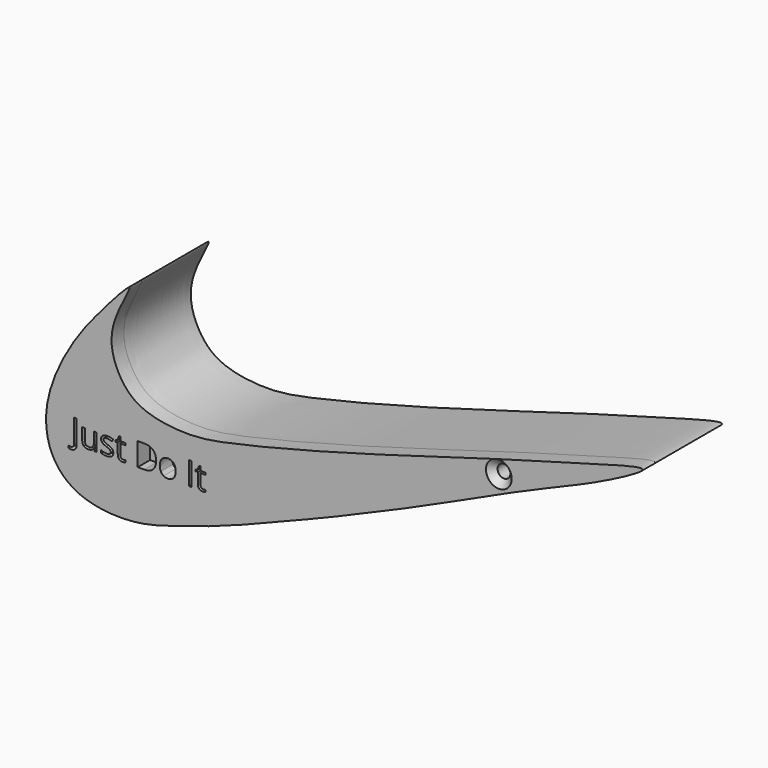
from build123d import *

# Parameters (mm, degrees)
F1_DEPTH       = 6.5
F2_W           = 0.2078971665
F2_H           = 1.7888552805
F3_DEPTH       = 1.2
F5_D           = 1
F5_CSINK_D     = 2
F5_CSINK_ANGLE = 90


with BuildPart() as f1:
    # F0 (on Front) → F1 (new body)
    with BuildSketch(Plane.XZ):
        with BuildLine():
            add(Edge.make_bspline(
                [(-46.7660725117, 38.5958254337), (-46.9121126383, 38.6681762673), (-49.8152556339, 35.3540722969), (-51.1271687307, 33.5037650167), (-52.496910175, 31.0585099087), (-53.4365939994, 28.091829778), (-53.0383888701, 25.0650092184), (-50.7565595066, 22.7762748451), (-46.5124040794, 22.4717158199), (-43.7486281427, 23.2673852766), (-40.8973893865, 24.1455550896), (-38.330376154, 25.075889555), (-35.5947590884, 26.1627297987), (-32.7195007389, 27.3272076083), (-30.5046720322, 28.2229116287), (-28.0241330398, 29.333123892), (-25.6471250773, 30.3054413643), (-23.7215274074, 31.2008745581), (-21.4532959, 32.1993428022), (-18.2291273114, 33.6929152445), (-16.2531467807, 34.5983472635), (-12.8258116748, 36.0571518436), (-10.1656364787, 37.1695088575), (-4.891932174, 39.9420516843), (-11.8462566872, 37.9178891812), (-15.8064232223, 36.8575290416), (-19.924720385, 35.6554395679), (-23.8089137205, 34.504630342), (-26.3645881932, 33.7694988716), (-29.1693164835, 32.9677343149), (-31.0039475632, 32.4655342455), (-34.0804091142, 31.6405366721), (-36.2508571055, 31.105639869), (-39.6955697914, 30.2903079684), (-41.9353702539, 29.9925371133), (-44.2647697897, 30.1530921953), (-46.3840520602, 30.7969200388), (-47.8323390467, 32.5447658476), (-48.6172798639, 35.4695238732), (-46.6369948736, 38.5318781137), (-46.7660725117, 38.5958254337)],
                knots=[0, 0, 0, 0, 0.0304075704, 0.0562338468, 0.0809020064, 0.107774204, 0.133612511, 0.1598372011, 0.1905353993, 0.2166725821, 0.2427092145, 0.2679151859, 0.294182451, 0.3209654067, 0.3446028546, 0.3696898586, 0.394151714, 0.4160986123, 0.4403311236, 0.4687962737, 0.4918022936, 0.5202097006, 0.5492248688, 0.5768921579, 0.6090051728, 0.6429248713, 0.6741074381, 0.7046427065, 0.7298259618, 0.7552831059, 0.776787643, 0.8034092057, 0.8269702303, 0.8552955584, 0.8785227609, 0.9015414136, 0.9237906045, 0.945867554, 0.9731242538, 1, 1, 1, 1], degree=3))
        make_face()
    extrude(amount=F1_DEPTH)

    # F2 (on face) → F3 (join)
    with BuildSketch(Plane.XZ.offset(6.5)):
        with BuildLine():
            add(Edge.make_bspline(
                [(-46.7660725117, 38.5958254337), (-46.9121126383, 38.6681762673), (-49.8152556339, 35.3540722969), (-51.1271687307, 33.5037650167), (-52.496910175, 31.0585099087), (-53.4365939994, 28.091829778), (-53.0383888701, 25.0650092184), (-50.7565595066, 22.7762748451), (-46.5124040794, 22.4717158199), (-43.7486281427, 23.2673852766), (-40.8973893865, 24.1455550896), (-38.330376154, 25.075889555), (-35.5947590884, 26.1627297987), (-32.7195007389, 27.3272076083), (-30.5046720322, 28.2229116287), (-28.0241330398, 29.333123892), (-25.6471250773, 30.3054413643), (-23.7215274074, 31.2008745581), (-21.4532959, 32.1993428022), (-18.2291273114, 33.6929152445), (-16.2531467807, 34.5983472635), (-12.8258116748, 36.0571518436), (-10.1656364787, 37.1695088575), (-4.891932174, 39.9420516843), (-11.8462566872, 37.9178891812), (-15.8064232223, 36.8575290416), (-19.924720385, 35.6554395679), (-23.8089137205, 34.504630342), (-26.3645881932, 33.7694988716), (-29.1693164835, 32.9677343149), (-31.0039475632, 32.4655342455), (-34.0804091142, 31.6405366721), (-36.2508571055, 31.105639869), (-39.6955697914, 30.2903079684), (-41.9353702539, 29.9925371133), (-44.2647697897, 30.1530921953), (-46.3840520602, 30.7969200388), (-47.8323390467, 32.5447658476), (-48.6172798639, 35.4695238732), (-46.6369948736, 38.5318781137), (-46.7660725117, 38.5958254337)],
                knots=[0, 0, 0, 0, 0.0304075704, 0.0562338468, 0.0809020064, 0.107774204, 0.133612511, 0.1598372011, 0.1905353993, 0.2166725821, 0.2427092145, 0.2679151859, 0.294182451, 0.3209654067, 0.3446028546, 0.3696898586, 0.394151714, 0.4160986123, 0.4403311236, 0.4687962737, 0.4918022936, 0.5202097006, 0.5492248688, 0.5768921579, 0.6090051728, 0.6429248713, 0.6741074381, 0.7046427065, 0.7298259618, 0.7552831059, 0.776787643, 0.8034092057, 0.8269702303, 0.8552955584, 0.8785227609, 0.9015414136, 0.9237906045, 0.945867554, 0.9731242538, 1, 1, 1, 1], degree=3))
        make_face()
        with BuildLine():
            add(Edge.make_bspline(
                [(-50.9741092271, 26.1774555373), (-51.0915652533, 26.0496242287), (-51.3119910627, 26.0496242287)],
                knots=[0, 0, 0, 1, 1, 1], degree=2))
            add(Edge.make_bspline(
                [(-51.3119910627, 26.0496242287), (-51.4267064484, 26.0496242287), (-51.4928733432, 26.0825119161)],
                knots=[0, 0, 0, 1, 1, 1], degree=2))
            Line((-51.4928733432, 26.0825119161), (-51.4928733432, 26.2598705158))
            add(Edge.make_bspline(
                [(-51.4928733432, 26.2598705158), (-51.4059558837, 26.2355962704), (-51.3119910627, 26.2355962704)],
                knots=[0, 0, 0, 1, 1, 1], degree=2))
            add(Edge.make_bspline(
                [(-51.3119910627, 26.2355962704), (-51.1906198355, 26.2355962704), (-51.1275851014, 26.3090062868)],
                knots=[0, 0, 0, 1, 1, 1], degree=2))
            add(Edge.make_bspline(
                [(-51.1275851014, 26.3090062868), (-51.0645503673, 26.3824163032), (-51.0645503673, 26.5206228942)],
                knots=[0, 0, 0, 1, 1, 1], degree=2))
            Line((-51.0645503673, 26.5206228942), (-51.0645503673, 28.3094781747))
            Line((-51.0645503673, 28.3094781747), (-50.8566532008, 28.3094781747))
            Line((-50.8566532008, 28.3094781747), (-50.8566532008, 26.537849778))
            add(Edge.make_bspline(
                [(-50.8566532008, 26.537849778), (-50.8566532008, 26.305286846), (-50.9741092271, 26.1774555373)],
                knots=[0, 0, 0, 1, 1, 1], degree=2))
        make_face(mode=Mode.SUBTRACT)
        with BuildLine():
            Line((-50.4271556646, 27.8615791944), (-50.2216076186, 27.8615791944))
            Line((-50.2216076186, 27.8615791944), (-50.2216076186, 26.9916215596))
            add(Edge.make_bspline(
                [(-50.2216076186, 26.9916215596), (-50.2216076186, 26.8275746429), (-50.1470230419, 26.7469215048)],
                knots=[0, 0, 0, 1, 1, 1], degree=2))
            add(Edge.make_bspline(
                [(-50.1470230419, 26.7469215048), (-50.0724384652, 26.6662683668), (-49.9134813096, 26.6662683668)],
                knots=[0, 0, 0, 1, 1, 1], degree=2))
            add(Edge.make_bspline(
                [(-49.9134813096, 26.6662683668), (-49.7028435024, 26.6662683668), (-49.6057465207, 26.7811795125)],
                knots=[0, 0, 0, 1, 1, 1], degree=2))
            add(Edge.make_bspline(
                [(-49.6057465207, 26.7811795125), (-49.5086495389, 26.8960906582), (-49.5086495389, 27.1568430366)],
                knots=[0, 0, 0, 1, 1, 1], degree=2))
            Line((-49.5086495389, 27.1568430366), (-49.5086495389, 27.8615791944))
            Line((-49.5086495389, 27.8615791944), (-49.3054506134, 27.8615791944))
            Line((-49.3054506134, 27.8615791944), (-49.3054506134, 26.5206228942))
            Line((-49.3054506134, 26.5206228942), (-49.473021211, 26.5206228942))
            Line((-49.473021211, 26.5206228942), (-49.5023852175, 26.7003306144))
            Line((-49.5023852175, 26.7003306144), (-49.51334778, 26.7003306144))
            add(Edge.make_bspline(
                [(-49.51334778, 26.7003306144), (-49.5755994739, 26.6012760322), (-49.6863996587, 26.5486165804)],
                knots=[0, 0, 0, 1, 1, 1], degree=2))
            add(Edge.make_bspline(
                [(-49.6863996587, 26.5486165804), (-49.7971998435, 26.4959571286), (-49.9393216354, 26.4959571286)],
                knots=[0, 0, 0, 1, 1, 1], degree=2))
            add(Edge.make_bspline(
                [(-49.9393216354, 26.4959571286), (-50.1840216902, 26.4959571286), (-50.3055886774, 26.6122385947)],
                knots=[0, 0, 0, 1, 1, 1], degree=2))
            add(Edge.make_bspline(
                [(-50.3055886774, 26.6122385947), (-50.4271556646, 26.7285200607), (-50.4271556646, 26.984182678)],
                knots=[0, 0, 0, 1, 1, 1], degree=2))
            Line((-50.4271556646, 26.984182678), (-50.4271556646, 27.8615791944))
        make_face(mode=Mode.SUBTRACT)
        with BuildLine():
            add(Edge.make_bspline(
                [(-48.0936959421, 27.1079030257), (-48.0099106434, 27.0198110059), (-48.0099106434, 26.886302656)],
                knots=[0, 0, 0, 1, 1, 1], degree=2))
            add(Edge.make_bspline(
                [(-48.0099106434, 26.886302656), (-48.0099106434, 26.6991560541), (-48.1492917946, 26.5975565914)],
                knots=[0, 0, 0, 1, 1, 1], degree=2))
            add(Edge.make_bspline(
                [(-48.1492917946, 26.5975565914), (-48.2886729458, 26.4959571286), (-48.5408118823, 26.4959571286)],
                knots=[0, 0, 0, 1, 1, 1], degree=2))
            add(Edge.make_bspline(
                [(-48.5408118823, 26.4959571286), (-48.8074370619, 26.4959571286), (-48.9566062153, 26.5805254676)],
                knots=[0, 0, 0, 1, 1, 1], degree=2))
            Line((-48.9566062153, 26.5805254676), (-48.9566062153, 26.7688466297))
            add(Edge.make_bspline(
                [(-48.9566062153, 26.7688466297), (-48.8599007537, 26.7199066188), (-48.7492963289, 26.6919129325)],
                knots=[0, 0, 0, 1, 1, 1], degree=2))
            add(Edge.make_bspline(
                [(-48.7492963289, 26.6919129325), (-48.6386919042, 26.6639192463), (-48.5357221211, 26.6639192463)],
                knots=[0, 0, 0, 1, 1, 1], degree=2))
            add(Edge.make_bspline(
                [(-48.5357221211, 26.6639192463), (-48.3767649655, 26.6639192463), (-48.2912178264, 26.7146210976)],
                knots=[0, 0, 0, 1, 1, 1], degree=2))
            add(Edge.make_bspline(
                [(-48.2912178264, 26.7146210976), (-48.2056706872, 26.765322949), (-48.2056706872, 26.8694672923)],
                knots=[0, 0, 0, 1, 1, 1], degree=2))
            add(Edge.make_bspline(
                [(-48.2056706872, 26.8694672923), (-48.2056706872, 26.9477713098), (-48.2734036624, 27.0033671623)],
                knots=[0, 0, 0, 1, 1, 1], degree=2))
            add(Edge.make_bspline(
                [(-48.2734036624, 27.0033671623), (-48.3411366375, 27.0589630147), (-48.5384627617, 27.1349179117)],
                knots=[0, 0, 0, 1, 1, 1], degree=2))
            add(Edge.make_bspline(
                [(-48.5384627617, 27.1349179117), (-48.7256093636, 27.2046084873), (-48.8045006613, 27.256680659)],
                knots=[0, 0, 0, 1, 1, 1], degree=2))
            add(Edge.make_bspline(
                [(-48.8045006613, 27.256680659), (-48.883391959, 27.3087528306), (-48.9219566876, 27.3747239654)],
                knots=[0, 0, 0, 1, 1, 1], degree=2))
            add(Edge.make_bspline(
                [(-48.9219566876, 27.3747239654), (-48.9605214162, 27.4406951002), (-48.9605214162, 27.5323108007)],
                knots=[0, 0, 0, 1, 1, 1], degree=2))
            add(Edge.make_bspline(
                [(-48.9605214162, 27.5323108007), (-48.9605214162, 27.6963577174), (-48.8270130663, 27.7913013387)],
                knots=[0, 0, 0, 1, 1, 1], degree=2))
            add(Edge.make_bspline(
                [(-48.8270130663, 27.7913013387), (-48.6935047164, 27.8862449599), (-48.4613333045, 27.8862449599)],
                knots=[0, 0, 0, 1, 1, 1], degree=2))
            add(Edge.make_bspline(
                [(-48.4613333045, 27.8862449599), (-48.244822696, 27.8862449599), (-48.0377085696, 27.7981529402)],
                knots=[0, 0, 0, 1, 1, 1], degree=2))
            Line((-48.0377085696, 27.7981529402), (-48.1101397858, 27.6329314632))
            add(Edge.make_bspline(
                [(-48.1101397858, 27.6329314632), (-48.311772631, 27.7159337218), (-48.4758195477, 27.7159337218)],
                knots=[0, 0, 0, 1, 1, 1], degree=2))
            add(Edge.make_bspline(
                [(-48.4758195477, 27.7159337218), (-48.62029046, 27.7159337218), (-48.6937004765, 27.6707131517)],
                knots=[0, 0, 0, 1, 1, 1], degree=2))
            add(Edge.make_bspline(
                [(-48.6937004765, 27.6707131517), (-48.7671104929, 27.6254925815), (-48.7671104929, 27.5460140037)],
                knots=[0, 0, 0, 1, 1, 1], degree=2))
            add(Edge.make_bspline(
                [(-48.7671104929, 27.5460140037), (-48.7671104929, 27.4919842316), (-48.7395083267, 27.4542025432)],
                knots=[0, 0, 0, 1, 1, 1], degree=2))
            add(Edge.make_bspline(
                [(-48.7395083267, 27.4542025432), (-48.7119061606, 27.4164208547), (-48.6508290269, 27.3821628471)],
                knots=[0, 0, 0, 1, 1, 1], degree=2))
            add(Edge.make_bspline(
                [(-48.6508290269, 27.3821628471), (-48.5897518932, 27.3479048394), (-48.4159169743, 27.2829125048)],
                knots=[0, 0, 0, 1, 1, 1], degree=2))
            add(Edge.make_bspline(
                [(-48.4159169743, 27.2829125048), (-48.1774812409, 27.1959950454), (-48.0936959421, 27.1079030257)],
                knots=[0, 0, 0, 1, 1, 1], degree=2))
        make_face(mode=Mode.SUBTRACT)
        with BuildLine():
            add(Edge.make_bspline(
                [(-47.4042290678, 26.7287158208), (-47.3466756149, 26.6639192463), (-47.2464464725, 26.6639192463)],
                knots=[0, 0, 0, 1, 1, 1], degree=2))
            add(Edge.make_bspline(
                [(-47.2464464725, 26.6639192463), (-47.1924167004, 26.6639192463), (-47.1423021291, 26.671749648)],
                knots=[0, 0, 0, 1, 1, 1], degree=2))
            add(Edge.make_bspline(
                [(-47.1423021291, 26.671749648), (-47.0921875579, 26.6795800498), (-47.0628235513, 26.6881934917)],
                knots=[0, 0, 0, 1, 1, 1], degree=2))
            Line((-47.0628235513, 26.6881934917), (-47.0628235513, 26.5327600169))
            add(Edge.make_bspline(
                [(-47.0628235513, 26.5327600169), (-47.0957112387, 26.5170992134), (-47.1599205331, 26.506528171)],
                knots=[0, 0, 0, 1, 1, 1], degree=2))
            add(Edge.make_bspline(
                [(-47.1599205331, 26.506528171), (-47.2241298275, 26.4959571286), (-47.275810479, 26.4959571286)],
                knots=[0, 0, 0, 1, 1, 1], degree=2))
            add(Edge.make_bspline(
                [(-47.275810479, 26.4959571286), (-47.6645899261, 26.4959571286), (-47.6645899261, 26.9058786604)],
                knots=[0, 0, 0, 1, 1, 1], degree=2))
            Line((-47.6645899261, 26.9058786604), (-47.6645899261, 27.7037965991))
            Line((-47.6645899261, 27.7037965991), (-47.8568262891, 27.7037965991))
            Line((-47.8568262891, 27.7037965991), (-47.8568262891, 27.801676621))
            Line((-47.8568262891, 27.801676621), (-47.6645899261, 27.8862449599))
            Line((-47.6645899261, 27.8862449599), (-47.579238547, 28.172446144))
            Line((-47.579238547, 28.172446144), (-47.4617825207, 28.172446144))
            Line((-47.4617825207, 28.172446144), (-47.4617825207, 27.8615791944))
            Line((-47.4617825207, 27.8615791944), (-47.0726115535, 27.8615791944))
            Line((-47.0726115535, 27.8615791944), (-47.0726115535, 27.7037965991))
            Line((-47.0726115535, 27.7037965991), (-47.4617825207, 27.7037965991))
            Line((-47.4617825207, 27.7037965991), (-47.4617825207, 26.9144921024))
            add(Edge.make_bspline(
                [(-47.4617825207, 26.9144921024), (-47.4617825207, 26.7935123953), (-47.4042290678, 26.7287158208)],
                knots=[0, 0, 0, 1, 1, 1], degree=2))
        make_face(mode=Mode.SUBTRACT)
        with BuildLine():
            add(Edge.make_bspline(
                [(-44.9167061908, 28.0782855629), (-44.6855135791, 27.8470929512), (-44.6855135791, 27.4320816582)],
                knots=[0, 0, 0, 1, 1, 1], degree=2))
            add(Edge.make_bspline(
                [(-44.6855135791, 27.4320816582), (-44.6855135791, 26.9892724391), (-44.9259069129, 26.7549476666)],
                knots=[0, 0, 0, 1, 1, 1], degree=2))
            add(Edge.make_bspline(
                [(-44.9259069129, 26.7549476666), (-45.1663002467, 26.5206228942), (-45.6177229078, 26.5206228942)],
                knots=[0, 0, 0, 1, 1, 1], degree=2))
            Line((-45.6177229078, 26.5206228942), (-46.1133873388, 26.5206228942))
            Line((-46.1133873388, 26.5206228942), (-46.1133873388, 28.3094781747))
            Line((-46.1133873388, 28.3094781747), (-45.565259216, 28.3094781747))
            add(Edge.make_bspline(
                [(-45.565259216, 28.3094781747), (-45.1478988026, 28.3094781747), (-44.9167061908, 28.0782855629)],
                knots=[0, 0, 0, 1, 1, 1], degree=2))
        make_face(mode=Mode.SUBTRACT)
        with BuildLine():
            add(Edge.make_bspline(
                [(-43.3255685546, 27.698902598), (-43.1597597975, 27.511560236), (-43.1597597975, 27.1924713646)],
                knots=[0, 0, 0, 1, 1, 1], degree=2))
            add(Edge.make_bspline(
                [(-43.1597597975, 27.1924713646), (-43.1597597975, 26.8643775311), (-43.3247855144, 26.6801673299)],
                knots=[0, 0, 0, 1, 1, 1], degree=2))
            add(Edge.make_bspline(
                [(-43.3247855144, 26.6801673299), (-43.4898112314, 26.4959571286), (-43.7811021766, 26.4959571286)],
                knots=[0, 0, 0, 1, 1, 1], degree=2))
            add(Edge.make_bspline(
                [(-43.7811021766, 26.4959571286), (-43.9612014169, 26.4959571286), (-44.1005825681, 26.5805254676)],
                knots=[0, 0, 0, 1, 1, 1], degree=2))
            add(Edge.make_bspline(
                [(-44.1005825681, 26.5805254676), (-44.2399637193, 26.6650938065), (-44.3159186163, 26.8228764018)],
                knots=[0, 0, 0, 1, 1, 1], degree=2))
            add(Edge.make_bspline(
                [(-44.3159186163, 26.8228764018), (-44.3918735133, 26.9806589972), (-44.3918735133, 27.1924713646)],
                knots=[0, 0, 0, 1, 1, 1], degree=2))
            add(Edge.make_bspline(
                [(-44.3918735133, 27.1924713646), (-44.3918735133, 27.520173678), (-44.2278265966, 27.7032093189)],
                knots=[0, 0, 0, 1, 1, 1], degree=2))
            add(Edge.make_bspline(
                [(-44.2278265966, 27.7032093189), (-44.0637796799, 27.8862449599), (-43.7724887347, 27.8862449599)],
                knots=[0, 0, 0, 1, 1, 1], degree=2))
            add(Edge.make_bspline(
                [(-43.7724887347, 27.8862449599), (-43.4913773117, 27.8862449599), (-43.3255685546, 27.698902598)],
                knots=[0, 0, 0, 1, 1, 1], degree=2))
        make_face(mode=Mode.SUBTRACT)
        with Locations((-42.0178914618, 27.4150505344)):
            Rectangle(F2_W, F2_H, mode=Mode.SUBTRACT)
        with BuildLine():
            add(Edge.make_bspline(
                [(-41.1786681539, 26.7287158208), (-41.121114701, 26.6639192463), (-41.0208855586, 26.6639192463)],
                knots=[0, 0, 0, 1, 1, 1], degree=2))
            add(Edge.make_bspline(
                [(-41.0208855586, 26.6639192463), (-40.9668557865, 26.6639192463), (-40.9167412153, 26.671749648)],
                knots=[0, 0, 0, 1, 1, 1], degree=2))
            add(Edge.make_bspline(
                [(-40.9167412153, 26.671749648), (-40.866626644, 26.6795800498), (-40.8372626375, 26.6881934917)],
                knots=[0, 0, 0, 1, 1, 1], degree=2))
            Line((-40.8372626375, 26.6881934917), (-40.8372626375, 26.5327600169))
            add(Edge.make_bspline(
                [(-40.8372626375, 26.5327600169), (-40.8701503248, 26.5170992134), (-40.9343596192, 26.506528171)],
                knots=[0, 0, 0, 1, 1, 1], degree=2))
            add(Edge.make_bspline(
                [(-40.9343596192, 26.506528171), (-40.9985689136, 26.4959571286), (-41.0502495652, 26.4959571286)],
                knots=[0, 0, 0, 1, 1, 1], degree=2))
            add(Edge.make_bspline(
                [(-41.0502495652, 26.4959571286), (-41.4390290122, 26.4959571286), (-41.4390290122, 26.9058786604)],
                knots=[0, 0, 0, 1, 1, 1], degree=2))
            Line((-41.4390290122, 26.9058786604), (-41.4390290122, 27.7037965991))
            Line((-41.4390290122, 27.7037965991), (-41.6312653752, 27.7037965991))
            Line((-41.6312653752, 27.7037965991), (-41.6312653752, 27.801676621))
            Line((-41.6312653752, 27.801676621), (-41.4390290122, 27.8862449599))
            Line((-41.4390290122, 27.8862449599), (-41.3536776331, 28.172446144))
            Line((-41.3536776331, 28.172446144), (-41.2362216068, 28.172446144))
            Line((-41.2362216068, 28.172446144), (-41.2362216068, 27.8615791944))
            Line((-41.2362216068, 27.8615791944), (-40.8470506397, 27.8615791944))
            Line((-40.8470506397, 27.8615791944), (-40.8470506397, 27.7037965991))
            Line((-40.8470506397, 27.7037965991), (-41.2362216068, 27.7037965991))
            Line((-41.2362216068, 27.7037965991), (-41.2362216068, 26.9144921024))
            add(Edge.make_bspline(
                [(-41.2362216068, 26.9144921024), (-41.2362216068, 26.7935123953), (-41.1786681539, 26.7287158208)],
                knots=[0, 0, 0, 1, 1, 1], degree=2))
        make_face(mode=Mode.SUBTRACT)
    extrude(amount=F3_DEPTH)

    # F5 (through all)
    with Locations(Plane.XZ.offset(7.7)):
        with Locations((-18.0444382131, 35.1675525308)):
            CounterSinkHole(F5_D / 2, F5_CSINK_D / 2, counter_sink_angle=F5_CSINK_ANGLE)


solid = f1.part
